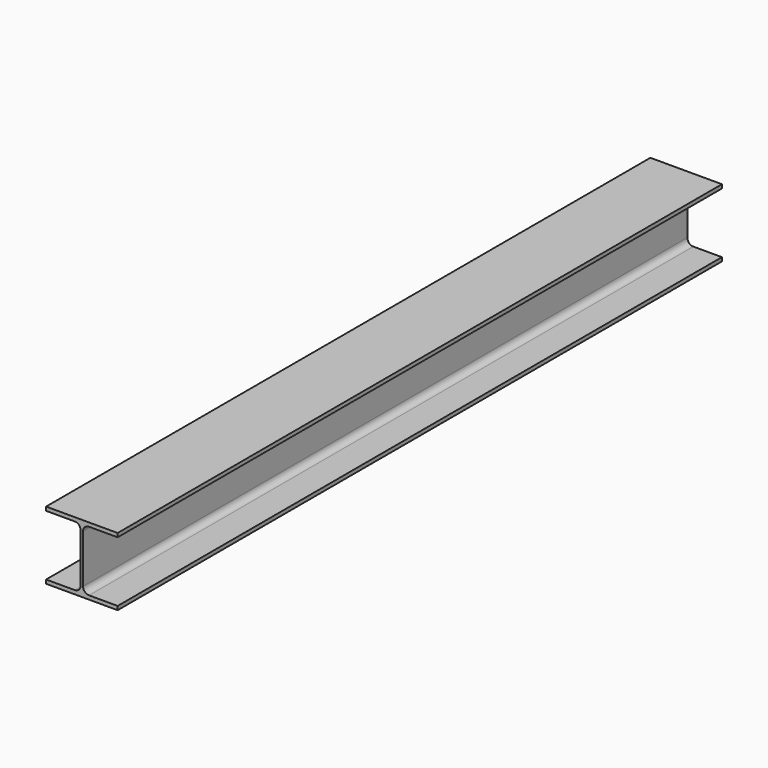
from build123d import *

# Parameters (mm, degrees)
F1_DEPTH = 1900
F2_R     = 15


with BuildPart() as f1:
    # F0 (on Front) → F1 (new body)
    with BuildSketch(Plane.XZ):
        Polygon((0, 9.5), (0, 0), (180, 0), (180, 9.5), (93, 9.5), (93, 161.5), (180, 161.5), (180, 171), (0, 171), (0, 161.5), (87, 161.5), (87, 9.5), align=None)
    extrude(amount=F1_DEPTH)

    # F2
    f2_edges = [f1.edges().sort_by_distance(p)[0] for p in [
        (93, -950, 9.5),
        (93, -950, 161.5),
        (87, -950, 161.5),
        (87, -950, 9.5),
    ]]
    fillet(f2_edges, radius=F2_R)


solid = f1.part
